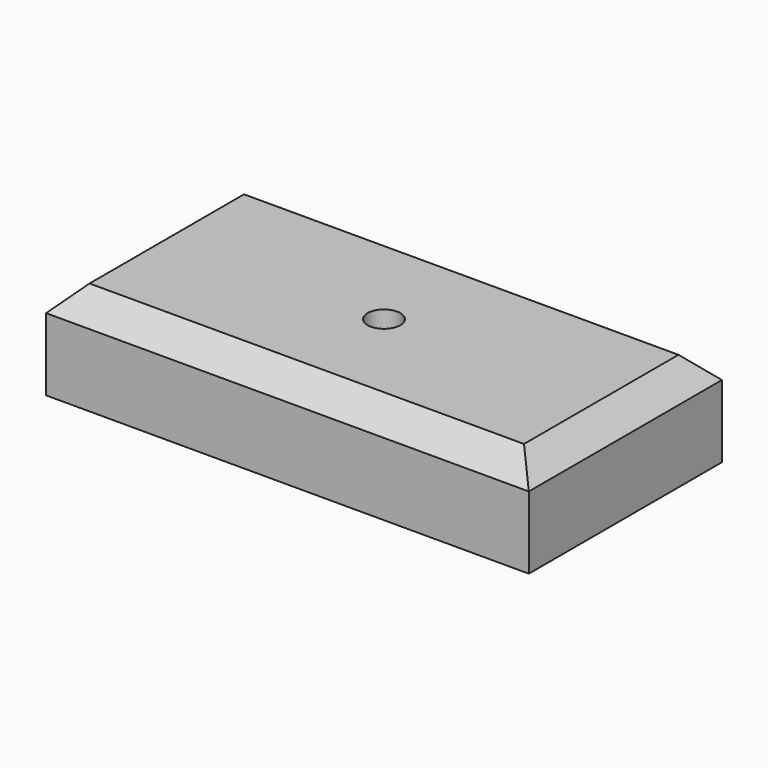
from build123d import *

# Parameters (mm, degrees)
F0_W     = 100
F0_H     = 50
F1_DEPTH = 10
F3_D     = 6.8
F4_SIZE  = 5


with BuildPart() as f1:
    # F0 (on Top) → F1 (new body, symmetric)
    with BuildSketch(Plane.XY):
        Rectangle(F0_W, F0_H)
    extrude(amount=F1_DEPTH, both=True)

    # F3 (through all)
    with Locations(Plane.XY.offset(10)):
        with Locations((0, 0)):
            Hole(F3_D / 2)

    # F4
    f4_edges = [f1.edges().sort_by_distance(p)[0] for p in [
        (-50, 0, 10),
        (0, -25, 10),
        (50, 0, 10),
        (0, 25, 10),
    ]]
    chamfer(f4_edges, length=F4_SIZE)


solid = f1.part
